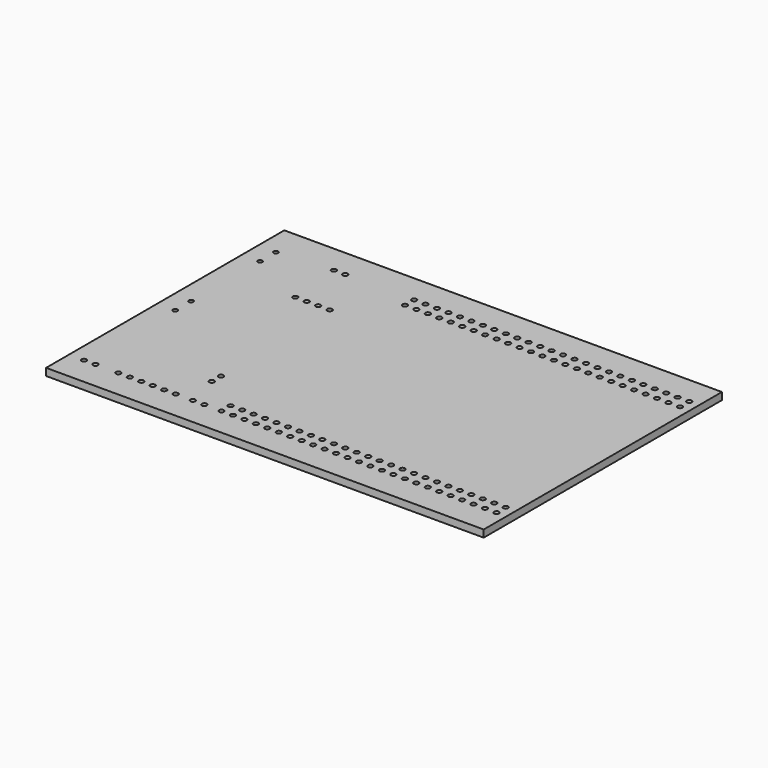
from build123d import *

# Parameters (mm, degrees)
F0_W      = 97
F0_H      = 66
F1_DEPTH  = 1.6
F2_R      = 0.55
F3_DEPTH  = 1.601
F4_R      = 0.55
F5_DEPTH  = 1.601
F6_R      = 0.55
F7_DEPTH  = 1.601
F8_R      = 0.55
F9_DEPTH  = 1.601
F10_R     = 0.55
F11_DEPTH = 1.601
F12_R     = 0.5
F13_DEPTH = 1.601


with BuildPart() as f1:
    # F0 (on Top) → F1 (new body)
    with BuildSketch(Plane.XY):
        with Locations((-18, -1)):
            Rectangle(F0_W, F0_H)
    extrude(amount=-F1_DEPTH)

    # F2 (on Top) → F3 (cut, through all)
    with BuildSketch(Plane.XY):
        with Locations((28.28, -27.67)):
            Circle(F2_R)
        with Locations((28.28, -25.13)):
            Circle(F2_R)
        with Locations((25.74, -27.67)):
            Circle(F2_R)
        with Locations((25.74, -25.13)):
            Circle(F2_R)
        with Locations((23.2, -27.67)):
            Circle(F2_R)
        with Locations((23.2, -25.13)):
            Circle(F2_R)
        with Locations((20.66, -27.67)):
            Circle(F2_R)
        with Locations((20.66, -25.13)):
            Circle(F2_R)
        with Locations((18.12, -27.67)):
            Circle(F2_R)
        with Locations((18.12, -25.13)):
            Circle(F2_R)
        with Locations((15.58, -27.67)):
            Circle(F2_R)
        with Locations((15.58, -25.13)):
            Circle(F2_R)
        with Locations((13.04, -27.67)):
            Circle(F2_R)
        with Locations((13.04, -25.13)):
            Circle(F2_R)
        with Locations((10.5, -27.67)):
            Circle(F2_R)
        with Locations((10.5, -25.13)):
            Circle(F2_R)
        with Locations((7.96, -27.67)):
            Circle(F2_R)
        with Locations((7.96, -25.13)):
            Circle(F2_R)
        with Locations((5.42, -27.67)):
            Circle(F2_R)
        with Locations((5.42, -25.13)):
            Circle(F2_R)
        with Locations((2.88, -27.67)):
            Circle(F2_R)
        with Locations((2.88, -25.13)):
            Circle(F2_R)
        with Locations((0.34, -27.67)):
            Circle(F2_R)
        with Locations((0.34, -25.13)):
            Circle(F2_R)
        with Locations((-2.2, -27.67)):
            Circle(F2_R)
        with Locations((-2.2, -25.13)):
            Circle(F2_R)
        with Locations((-4.74, -27.67)):
            Circle(F2_R)
        with Locations((-4.74, -25.13)):
            Circle(F2_R)
        with Locations((-7.28, -27.67)):
            Circle(F2_R)
        with Locations((-7.28, -25.13)):
            Circle(F2_R)
        with Locations((-9.82, -27.67)):
            Circle(F2_R)
        with Locations((-9.82, -25.13)):
            Circle(F2_R)
        with Locations((-12.36, -27.67)):
            Circle(F2_R)
        with Locations((-12.36, -25.13)):
            Circle(F2_R)
        with Locations((-14.9, -27.67)):
            Circle(F2_R)
        with Locations((-14.9, -25.13)):
            Circle(F2_R)
        with Locations((-17.44, -27.67)):
            Circle(F2_R)
        with Locations((-17.44, -25.13)):
            Circle(F2_R)
        with Locations((-19.98, -27.67)):
            Circle(F2_R)
        with Locations((-19.98, -25.13)):
            Circle(F2_R)
        with Locations((-22.52, -27.67)):
            Circle(F2_R)
        with Locations((-22.52, -25.13)):
            Circle(F2_R)
        with Locations((-25.06, -27.67)):
            Circle(F2_R)
        with Locations((-25.06, -25.13)):
            Circle(F2_R)
        with Locations((-27.6, -27.67)):
            Circle(F2_R)
        with Locations((-27.6, -25.13)):
            Circle(F2_R)
        with Locations((-30.14, -27.67)):
            Circle(F2_R)
        with Locations((-30.14, -25.13)):
            Circle(F2_R)
        with Locations((-32.68, -27.67)):
            Circle(F2_R)
        with Locations((-32.68, -25.13)):
            Circle(F2_R)
        with Locations((28.3, 25.67)):
            Circle(F2_R)
        with Locations((28.3, 23.13)):
            Circle(F2_R)
        with Locations((25.76, 25.67)):
            Circle(F2_R)
        with Locations((25.76, 23.13)):
            Circle(F2_R)
        with Locations((23.22, 25.67)):
            Circle(F2_R)
        with Locations((23.22, 23.13)):
            Circle(F2_R)
        with Locations((20.68, 25.67)):
            Circle(F2_R)
        with Locations((20.68, 23.13)):
            Circle(F2_R)
        with Locations((18.14, 25.67)):
            Circle(F2_R)
        with Locations((18.14, 23.13)):
            Circle(F2_R)
        with Locations((15.6, 25.67)):
            Circle(F2_R)
        with Locations((15.6, 23.13)):
            Circle(F2_R)
        with Locations((13.06, 25.67)):
            Circle(F2_R)
        with Locations((13.06, 23.13)):
            Circle(F2_R)
        with Locations((10.52, 25.67)):
            Circle(F2_R)
        with Locations((10.52, 23.13)):
            Circle(F2_R)
        with Locations((7.98, 25.67)):
            Circle(F2_R)
        with Locations((7.98, 23.13)):
            Circle(F2_R)
        with Locations((5.44, 25.67)):
            Circle(F2_R)
        with Locations((5.44, 23.13)):
            Circle(F2_R)
        with Locations((2.9, 25.67)):
            Circle(F2_R)
        with Locations((2.9, 23.13)):
            Circle(F2_R)
        with Locations((0.36, 25.67)):
            Circle(F2_R)
        with Locations((0.36, 23.13)):
            Circle(F2_R)
        with Locations((-2.18, 25.67)):
            Circle(F2_R)
        with Locations((-2.18, 23.13)):
            Circle(F2_R)
        with Locations((-4.72, 25.67)):
            Circle(F2_R)
        with Locations((-4.72, 23.13)):
            Circle(F2_R)
        with Locations((-7.26, 25.67)):
            Circle(F2_R)
        with Locations((-7.26, 23.13)):
            Circle(F2_R)
        with Locations((-9.8, 25.67)):
            Circle(F2_R)
        with Locations((-9.8, 23.13)):
            Circle(F2_R)
        with Locations((-12.34, 25.67)):
            Circle(F2_R)
        with Locations((-12.34, 23.13)):
            Circle(F2_R)
        with Locations((-14.88, 25.67)):
            Circle(F2_R)
        with Locations((-14.88, 23.13)):
            Circle(F2_R)
        with Locations((-17.42, 25.67)):
            Circle(F2_R)
        with Locations((-17.42, 23.13)):
            Circle(F2_R)
        with Locations((-19.96, 25.67)):
            Circle(F2_R)
        with Locations((-19.96, 23.13)):
            Circle(F2_R)
        with Locations((-22.5, 25.67)):
            Circle(F2_R)
        with Locations((-22.5, 23.13)):
            Circle(F2_R)
        with Locations((-25.04, 25.67)):
            Circle(F2_R)
        with Locations((-25.04, 23.13)):
            Circle(F2_R)
        with Locations((-27.58, 25.67)):
            Circle(F2_R)
        with Locations((-27.58, 23.13)):
            Circle(F2_R)
        with Locations((-30.12, 25.67)):
            Circle(F2_R)
        with Locations((-30.12, 23.13)):
            Circle(F2_R)
        with Locations((-32.66, 25.67)):
            Circle(F2_R)
        with Locations((-32.66, 23.13)):
            Circle(F2_R)
    extrude(amount=-F3_DEPTH, mode=Mode.SUBTRACT)

    # F4 (on Top) → F5 (cut, through all)
    with BuildSketch(Plane.XY):
        with Locations((-63.16, -27.67)):
            Circle(F4_R)
        with Locations((-60.62, -27.67)):
            Circle(F4_R)
        with Locations((-50.46, 25.67)):
            Circle(F4_R)
        with Locations((-47.92, 25.67)):
            Circle(F4_R)
    extrude(amount=-F5_DEPTH, mode=Mode.SUBTRACT)

    # F6 (on Top) → F7 (cut, through all)
    with BuildSketch(Plane.XY):
        with Locations((-55.54, -27.67)):
            Circle(F6_R)
        with Locations((-53, -27.67)):
            Circle(F6_R)
        with Locations((-50.46, -27.67)):
            Circle(F6_R)
        with Locations((-47.92, -27.67)):
            Circle(F6_R)
        with Locations((-45.38, -27.67)):
            Circle(F6_R)
        with Locations((-42.84, -27.67)):
            Circle(F6_R)
    extrude(amount=-F7_DEPTH, mode=Mode.SUBTRACT)

    # F8 (on Top) → F9 (cut, through all)
    with BuildSketch(Plane.XY):
        with Locations((-40.93, -20.05)):
            Circle(F8_R)
        with Locations((-49.35, 13.61)):
            Circle(F8_R)
        with Locations((-40.93, -17.51)):
            Circle(F8_R)
        with Locations((-46.81, 13.61)):
            Circle(F8_R)
        with Locations((-44.27, 13.61)):
            Circle(F8_R)
        with Locations((-41.73, 13.61)):
            Circle(F8_R)
    extrude(amount=-F9_DEPTH, mode=Mode.SUBTRACT)

    # F10 (on Top) → F11 (cut, through all)
    with BuildSketch(Plane.XY):
        with Locations((-39.03, -27.67)):
            Circle(F10_R)
        with Locations((-36.49, -27.67)):
            Circle(F10_R)
    extrude(amount=-F11_DEPTH, mode=Mode.SUBTRACT)

    # F12 (on Top) → F13 (cut, through all)
    with BuildSketch(Plane.XY):
        with Locations((-62.52, 20.3)):
            Circle(F12_R)
        with Locations((-62.52, 24.7)):
            Circle(F12_R)
        with Locations((-62.52, 1.2)):
            Circle(F12_R)
        with Locations((-62.52, -3.2)):
            Circle(F12_R)
    extrude(amount=-F13_DEPTH, mode=Mode.SUBTRACT)


solid = f1.part
